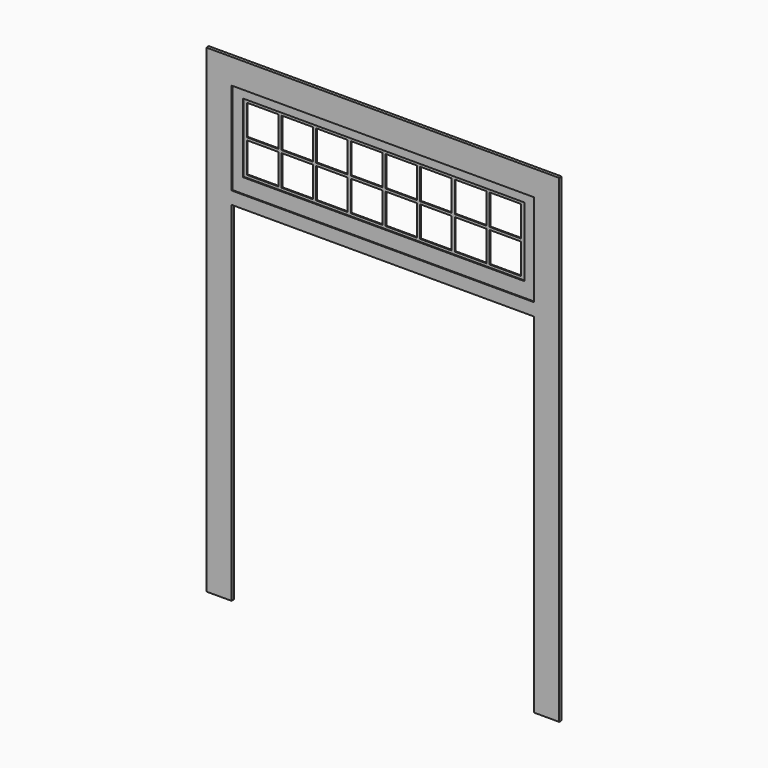
from build123d import *

# Parameters (mm, degrees)
F0_W     = 152.4
F0_H     = 152.4
F0_W_2   = 1828.8
F0_H_2   = 76.2
F1_DEPTH = 19.05
F0_H_3   = 558.8
F2_DEPTH = 12.7
F0_W_3   = 190.5
F0_H_4   = 184.15
F3_DEPTH = 6.35


with BuildPart() as f1:
    # F0 (on Front) → F1 (new body)
    with BuildSketch(Plane.XZ):
        Polygon((-914.4, 1295.4), (-1066.8, 1295.4), (-1066.8, -1447.8), (-914.4, -1447.8), (-914.4, 660.4), (-914.4, 736.6), align=None)
        with Locations((-990.6, 1371.6)):
            Rectangle(F0_W, F0_H)
        with Locations((0, 1371.6)):
            Rectangle(F0_W_2, F0_H)
        with Locations((990.6, 1371.6)):
            Rectangle(F0_W, F0_H)
        Polygon((1066.8, 1295.4), (914.4, 1295.4), (914.4, 736.6), (914.4, 660.4), (914.4, -1447.8), (1066.8, -1447.8), align=None)
        with Locations((0, 698.5)):
            Rectangle(F0_W_2, F0_H_2)
    extrude(amount=F1_DEPTH)

    # F0 (on Front) → F2 (join)
    with BuildSketch(Plane.XZ):
        with Locations((0, 1016)):
            Rectangle(F0_W_2, F0_H_3)
        Polygon((-850.9, 1225.55), (-850.9, 1244.6), (-831.85, 1244.6), (-641.35, 1244.6), (-622.3, 1244.6), (850.9, 1244.6), (850.9, 1225.55), (850.9, 1041.4), (850.9, 1025.525), (850.9, 841.375), (850.9, 825.5), (-622.3, 825.5), (-641.35, 825.5), (-831.85, 825.5), (-850.9, 825.5), (-850.9, 841.375), (-850.9, 1025.525), (-850.9, 1041.4), align=None, mode=Mode.SUBTRACT)
    extrude(amount=F2_DEPTH)

    # F0 (on Front) → F3 (join)
    with BuildSketch(Plane.XZ):
        Polygon((-831.85, 1244.6), (-850.9, 1244.6), (-850.9, 1225.55), (-850.9, 1041.4), (-850.9, 1025.525), (-850.9, 841.375), (-850.9, 825.5), (-831.85, 825.5), (-641.35, 825.5), (-622.3, 825.5), (850.9, 825.5), (850.9, 841.375), (850.9, 1025.525), (850.9, 1041.4), (850.9, 1225.55), (850.9, 1244.6), (-622.3, 1244.6), (-641.35, 1244.6), align=None)
        with Locations((-736.6, 933.45)):
            Rectangle(F0_W_3, F0_H_4, mode=Mode.SUBTRACT)
        with Locations((-736.6, 1133.475)):
            Rectangle(F0_W_3, F0_H_4, mode=Mode.SUBTRACT)
        with Locations((-527.05, 933.45)):
            Rectangle(F0_W_3, F0_H_4, mode=Mode.SUBTRACT)
        with Locations((-317.5, 933.45)):
            Rectangle(F0_W_3, F0_H_4, mode=Mode.SUBTRACT)
        with Locations((-107.95, 933.45)):
            Rectangle(F0_W_3, F0_H_4, mode=Mode.SUBTRACT)
        with Locations((-527.05, 1133.475)):
            Rectangle(F0_W_3, F0_H_4, mode=Mode.SUBTRACT)
        with Locations((-317.5, 1133.475)):
            Rectangle(F0_W_3, F0_H_4, mode=Mode.SUBTRACT)
        with Locations((-107.95, 1133.475)):
            Rectangle(F0_W_3, F0_H_4, mode=Mode.SUBTRACT)
        with Locations((101.6, 933.45)):
            Rectangle(F0_W_3, F0_H_4, mode=Mode.SUBTRACT)
        with Locations((311.15, 933.45)):
            Rectangle(F0_W_3, F0_H_4, mode=Mode.SUBTRACT)
        with Locations((520.7, 933.45)):
            Rectangle(F0_W_3, F0_H_4, mode=Mode.SUBTRACT)
        with Locations((101.6, 1133.475)):
            Rectangle(F0_W_3, F0_H_4, mode=Mode.SUBTRACT)
        with Locations((311.15, 1133.475)):
            Rectangle(F0_W_3, F0_H_4, mode=Mode.SUBTRACT)
        with Locations((520.7, 1133.475)):
            Rectangle(F0_W_3, F0_H_4, mode=Mode.SUBTRACT)
        with Locations((730.25, 933.45)):
            Rectangle(F0_W_3, F0_H_4, mode=Mode.SUBTRACT)
        with Locations((730.25, 1133.475)):
            Rectangle(F0_W_3, F0_H_4, mode=Mode.SUBTRACT)
    extrude(amount=F3_DEPTH)


solid = f1.part
